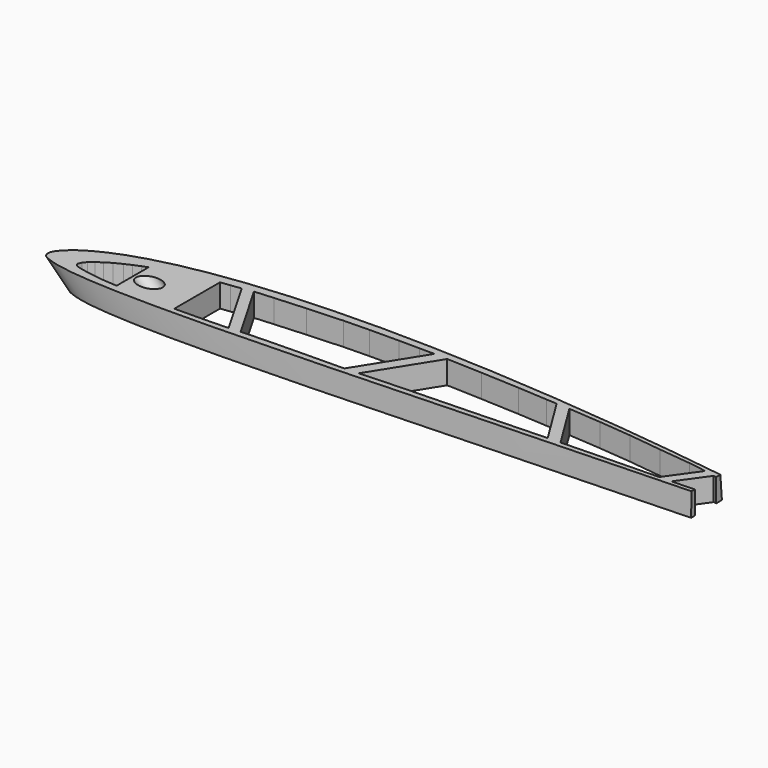
from build123d import *

# Parameters (mm, degrees)
SKETCH008_R     = 4.1
POCKET002_DEPTH = 1000
SKETCH024_W     = 670.370362
SKETCH024_H     = 227.915993
POCKET010_DEPTH = 200
SKETCH025_W     = 878.428672
SKETCH025_H     = 329.52359
POCKET011_DEPTH = 390
POCKET030_DEPTH = 15
SKETCH060_W     = 174.571045
SKETCH060_H     = 41.831333
POCKET036_DEPTH = 15


with BuildPart() as part:
    # Sketch007 → AdditiveLoft002 section 0
    with BuildSketch(Plane.XY):
        with BuildLine():
            add(Edge.make_bspline(
                [(442, 0), (441.516482, 0.05985), (439.608661, 0.304392), (435.397729, 0.910974), (428.574856, 2.050787), (419.357172, 3.70148), (407.988015, 5.842425), (394.698211, 8.361511), (379.693029, 11.119858), (363.162801, 13.997331), (345.26298, 16.850624), (326.154422, 19.592319), (306.024603, 22.224467), (285.087437, 24.693135), (263.574681, 26.954707), (241.720258, 28.956147), (219.751231, 30.630726), (197.897907, 31.93252), (176.376671, 32.821617), (155.396014, 33.244603), (135.15065, 33.188213), (115.824376, 32.629564), (97.587476, 31.56887), (80.596225, 30.005784), (64.993081, 27.968424), (50.899514, 25.480303), (38.413049, 22.576942), (27.612464, 19.308312), (18.537399, 15.757674), (11.25959, 12.025676), (5.681209, 8.285847), (2.085717, 4.609671), (-0.247471, 1.339778), (0.311945, -2.351632), (4.312806, -4.086549), (9.630029, -5.736613), (17.536136, -6.998137), (27.548729, -7.995899), (39.778624, -8.638792), (54.057759, -8.977652), (70.277468, -9.020418), (88.270446, -8.806011), (107.851364, -8.369968), (128.803322, -7.757266), (150.891088, -7.009708), (173.8572, -6.171241), (197.434439, -5.258382), (221.347851, -4.314599), (245.320032, -3.359505), (269.074332, -2.428661), (292.331841, -1.542801), (314.820615, -0.740997), (336.263952, -0.054134), (356.390635, 0.471415), (374.915352, 0.819632), (391.616087, 0.995955), (406.124271, 0.998543), (418.5896, 0.838399), (427.79948, 0.669458), (436.147044, 0.281922), (438.208582, 0.287723), (442.482043, -0.059667), (442, 0)],
                knots=[0, 0, 0, 0, 1.461597, 5.77029, 12.762078, 22.212664, 33.86298, 47.468775, 62.792045, 79.632371, 97.804006, 117.167199, 137.543181, 158.706049, 180.412086, 202.435333, 224.541436, 246.507528, 268.108303, 289.156025, 309.457208, 328.838587, 347.151752, 364.251375, 380.016791, 394.345039, 407.169539, 418.451022, 428.175556, 436.348274, 442.987025, 448.138084, 451.892769, 454.490135, 458.080843, 463.78995, 471.700688, 481.805752, 494.068802, 508.3943, 524.664455, 542.72125, 562.377151, 583.420645, 605.603797, 628.678224, 652.364831, 676.388479, 700.474308, 724.338439, 747.706026, 770.297556, 791.846969, 812.070775, 830.691007, 847.452489, 862.104791, 874.428615, 884.234973, 891.369529, 895.711178, 897.168317, 897.168317, 897.168317, 897.168317], degree=3))
        make_face()
    # Sketch006 → AdditiveLoft002 section 1
    with BuildSketch(Plane(origin=(600, 0, -600), x_dir=(1, 0, 0), z_dir=(0, 0, 1))):
        with BuildLine():
            add(Edge.make_bspline(
                [(221, 0), (220.758241, 0.029925), (219.804331, 0.152196), (217.698864, 0.455487), (214.287428, 1.025393), (209.678586, 1.85074), (203.994008, 2.921212), (197.349106, 4.180756), (189.846514, 5.559929), (181.5814, 6.998665), (172.63149, 8.425312), (163.077211, 9.796159), (153.012301, 11.112233), (142.543719, 12.346568), (131.78734, 13.477353), (120.860129, 14.478073), (109.875616, 15.315363), (98.948954, 15.96626), (88.188336, 16.410808), (77.698007, 16.622301), (67.575325, 16.594107), (57.912188, 16.314782), (48.793738, 15.784435), (40.298113, 15.002892), (32.49654, 13.984212), (25.449757, 12.740151), (19.206525, 11.288471), (13.806232, 9.654156), (9.2687, 7.878837), (5.629795, 6.012838), (2.840604, 4.142924), (1.042858, 2.304836), (-0.123736, 0.669889), (0.155972, -1.175816), (2.156403, -2.043274), (4.815015, -2.868307), (8.768068, -3.499068), (13.774365, -3.997949), (19.889312, -4.319396), (27.028879, -4.488826), (35.138734, -4.510209), (44.135223, -4.403006), (53.925682, -4.184984), (64.401661, -3.878633), (75.445544, -3.504854), (86.9286, -3.08562), (98.71722, -2.629191), (110.673925, -2.157299), (122.660016, -1.679753), (134.537166, -1.21433), (146.165921, -0.771401), (157.410308, -0.370498), (168.131976, -0.027067), (178.195317, 0.235708), (187.457676, 0.409816), (195.808043, 0.497978), (203.062136, 0.499271), (209.2948, 0.4192), (213.89974, 0.334729), (218.073522, 0.140961), (219.104291, 0.143861), (221.241022, -0.029834), (221, 0)],
                knots=[0, 0, 0, 0, 0.730799, 2.885145, 6.381039, 11.106332, 16.93149, 23.734387, 31.396023, 39.816186, 48.902003, 58.583599, 68.77159, 79.353025, 90.206043, 101.217667, 112.270718, 123.253764, 134.054152, 144.578012, 154.728604, 164.419294, 173.575876, 182.125688, 190.008395, 197.172519, 203.58477, 209.225511, 214.087778, 218.174137, 221.493513, 224.069042, 225.946384, 227.245067, 229.040421, 231.894975, 235.850344, 240.902876, 247.034401, 254.19715, 262.332227, 271.360625, 281.188575, 291.710323, 302.801898, 314.339112, 326.182416, 338.19424, 350.237154, 362.16922, 373.853013, 385.148778, 395.923484, 406.035388, 415.345504, 423.726244, 431.052396, 437.214307, 442.117487, 445.684765, 447.855589, 448.584159, 448.584159, 448.584159, 448.584159], degree=3))
        make_face()
    loft()

    # Sketch008 (on DatumPlane) → Pocket002 (cut)
    with BuildSketch(Plane(origin=(0, 0, 0), x_dir=(0.707107, 0, 0.707107), z_dir=(-0.707107, 0, 0.707107))):
        with Locations((28.334262, 4.752984)):
            Circle(SKETCH008_R)
    extrude(amount=-POCKET002_DEPTH, mode=Mode.SUBTRACT)

    # Sketch024 (on Face1 of Pocket002) → Pocket010 (cut)
    with BuildSketch(Plane.XY):
        with Locations((300.510254, -10.143688)):
            Rectangle(SKETCH024_W, SKETCH024_H)
    extrude(amount=-POCKET010_DEPTH, mode=Mode.SUBTRACT)

    # Sketch025 (on Face3 of Pocket010) → Pocket011 (cut)
    with BuildSketch(Plane(origin=(0, 0, -600), x_dir=(1, 0, 0), z_dir=(0, 0, -1))):
        with Locations((559.591816, 7.223846)):
            Rectangle(SKETCH025_W, SKETCH025_H)
    extrude(amount=-POCKET011_DEPTH, mode=Mode.SUBTRACT)

    # Sketch053 (on Face2 of Pocket011) → Pocket030 (cut)
    with BuildSketch(Plane(origin=(0, 0, -210), x_dir=(1, 0, 0), z_dir=(0, 0, -1))):
        Polygon((232.934723, -13.227738), (232.934723, 3.962116), (230.332672, 3.823009), (226.373749, 3.535088), (223.206604, 3.103205), (219.17569, 2.455381), (215.792618, 1.807558), (213.633194, 1.087753), (212.553482, 0), (213.273285, -1.863448), (214.568939, -3.375037), (216.512421, -4.886629), (218.887772, -6.614159), (221.623032, -8.26971), (224.862152, -9.853284), (227.597412, -11.148932), (230.62059, -12.372599), align=None)
        Polygon((529.44812, -5.421578), (529.372803, -2.77124), (518.644165, -2.452566), (507.384369, -2.452566), (492.088043, -2.133899), (474.647186, -1.517048), (468.173961, -1.285987), (476.744812, -13.335773), (493.616821, -10.900637), (505.183716, -9.074286), (516.489685, -7.421874), (524.75177, -6.204302), align=None)
        Polygon((472.330084, -14.328431), (463.006553, -1.22045), (436.978577, -0.55496), (421.28117, -0.093956), (408.215241, -21.193567), (422.281067, -20.12322), (436.370056, -18.818495), (450.54599, -17.078922), (464.721954, -15.513289), align=None)
        Polygon((402.538326, -21.440519), (415.865849, 0.081526), (393.96788, 0.858652), (379.741745, 1.334089), (367.191345, 1.7451), (355.65625, 2.100966), (344.333954, 2.583708), (336.607375, 2.939826), (353.364396, -23.825955), (368.686981, -23.247601), (385.348785, -22.464134), (397.880737, -21.680717), align=None)
        Polygon((347.681923, -24.075219), (330.60199, 3.206344), (312.35498, 3.439288), (297.314301, 3.730574), (286.580114, 4.118895), (271.742365, -21.589347), (279.889557, -22.167173), (293.297913, -23.041452), (308.688385, -23.857409), (319.648254, -24.09045), (332.415344, -24.148577), (341.218201, -24.090162), align=None)
        Polygon((281.69635, 4.483777), (267.106812, -20.794409), (262.676208, -20.2115), (258.595093, -19.745176), (258.595093, 4.97283), (267.689453, 4.856357), (275.209778, 4.739863), align=None)
    extrude(amount=-POCKET030_DEPTH, mode=Mode.SUBTRACT)

    # Sketch060 (on Face2 of Pocket030) → Pocket036 (cut)
    with BuildSketch(Plane(origin=(0, 0, -210), x_dir=(1, 0, 0), z_dir=(0, 0, -1))):
        with Locations((565.285523, -7.561206)):
            Rectangle(SKETCH060_W, SKETCH060_H)
    extrude(amount=-POCKET036_DEPTH, mode=Mode.SUBTRACT)


solid = part.part
